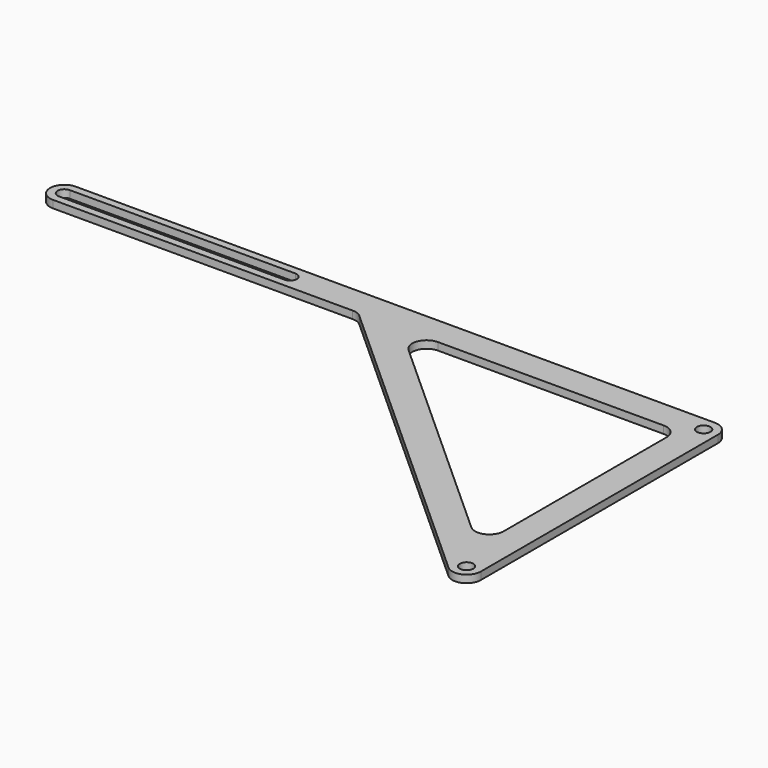
from build123d import *

# Parameters (mm, degrees)
F0_R     = 2.286
F1_DEPTH = 2.54


with BuildPart() as f1:
    # F0 (on Top) → F1 (new body)
    with BuildSketch(Plane.XY):
        with BuildLine():
            Line((0, 4.826), (-215.9, 4.826))
            ThreePointArc((-215.9, 4.826), (-220.726, 0), (-215.9, -4.826))
            Line((-215.9, -4.826), (-114.675652, -4.826))
            ThreePointArc((-114.675652, -4.826), (-112.944357, -5.147236), (-111.443546, -6.06818))
            Line((-111.443546, -6.06818), (-3.232106, -103.65982))
            ThreePointArc((-3.232106, -103.65982), (1.961139, -104.485559), (4.826, -100.076))
            Line((4.826, -100.076), (4.826, 0))
            ThreePointArc((4.826, 0), (3.412497, 3.412497), (0, 4.826))
        make_face()
        with Locations((0, -100.076)):
            Circle(F0_R, mode=Mode.SUBTRACT)
        with BuildLine():
            ThreePointArc((-215.9, -2.286), (-218.186, 0), (-215.9, 2.286))
            Line((-215.9, 2.286), (-139.7, 2.286))
            ThreePointArc((-139.7, 2.286), (-137.414, 0), (-139.7, -2.286))
            Line((-139.7, -2.286), (-215.9, -2.286))
        make_face(mode=Mode.SUBTRACT)
        with BuildLine():
            Line((-12.884106, -81.957602), (-89.084106, -13.23582))
            ThreePointArc((-89.084106, -13.23582), (-90.356764, -7.920706), (-85.852, -4.826))
            Line((-85.852, -4.826), (-9.652, -4.826))
            ThreePointArc((-9.652, -4.826), (-6.239503, -6.239503), (-4.826, -9.652))
            Line((-4.826, -9.652), (-4.826, -78.373782))
            ThreePointArc((-4.826, -78.373782), (-7.690861, -82.783341), (-12.884106, -81.957602))
        make_face(mode=Mode.SUBTRACT)
        Circle(F0_R, mode=Mode.SUBTRACT)
    extrude(amount=F1_DEPTH)


solid = f1.part
